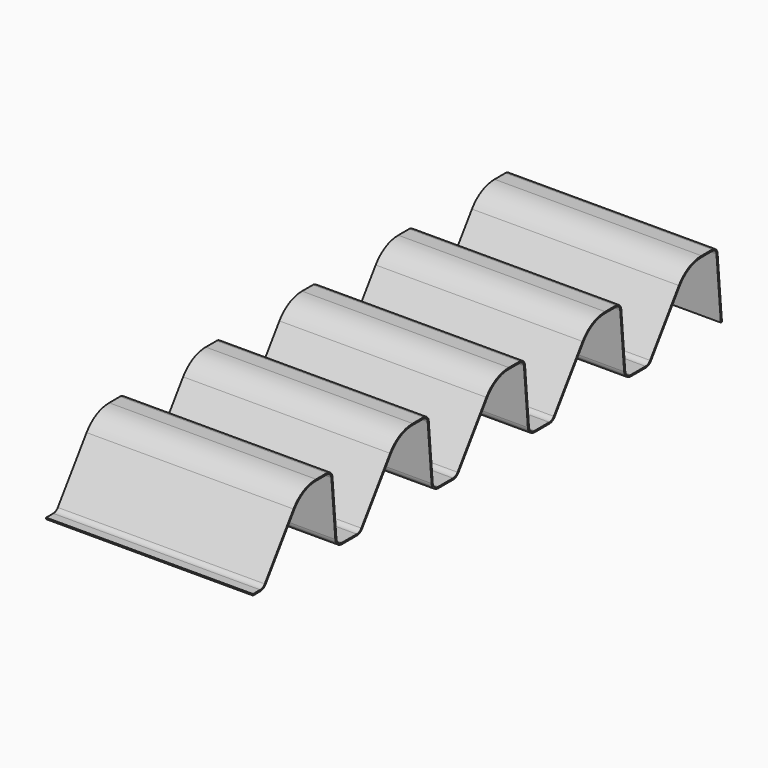
from build123d import *

# Parameters (mm, degrees)
F1_DEPTH      = 300
F1_DEPTH_BACK = 300


with BuildPart() as f1:
    # F0 (on Right) → F1 (new body, two sides)
    with BuildSketch(Plane.YZ) as f1_sk:
        with BuildLine():
            Line((110.183008, 157.357644), (5.9717, 8.528471))
            ThreePointArc((5.9717, 8.528471), (-1.176369, 2.259783), (-10.411341, 0))
            Line((-10.411341, 0), (-36.606026, 0))
            Line((-36.606026, 0), (-36.590081, -4))
            Line((-36.590081, -4), (-10.411341, -4))
            ThreePointArc((-10.411341, -4), (0.670626, -1.28826), (9.248308, 6.234166))
            Line((9.248308, 6.234166), (113.459616, 155.063338))
            ThreePointArc((113.459616, 155.063338), (147.770346, 185.15304), (192.098213, 196))
            Line((192.098213, 196), (231.673377, 196))
            ThreePointArc((231.673377, 196), (242.48282, 191.796437), (247.612492, 181.394492))
            Line((247.612492, 181.394492), (261.915687, 17.908216))
            ThreePointArc((261.915687, 17.908216), (269.610202, 2.305292), (285.824377, -4.000046))
            Line((285.824377, -4.000046), (339.588671, -4.000007))
            ThreePointArc((339.588671, -4.000007), (350.670628, -1.288263), (359.248303, 6.234158))
            Line((359.248303, 6.234158), (463.459616, 155.063338))
            ThreePointArc((463.459616, 155.063338), (497.770346, 185.15304), (542.098213, 196))
            Line((542.098213, 196), (581.673377, 196))
            ThreePointArc((581.673377, 196), (591.80723, 192.05916), (596.616297, 182.307336))
            Line((596.616297, 182.307336), (610.919489, 18.821106))
            ThreePointArc((610.919489, 18.821106), (618.613997, 3.218188), (634.828161, -3.087156))
            Line((634.828161, -3.087156), (688.592464, -3.087156))
            ThreePointArc((688.592464, -3.087156), (699.674431, -0.375416), (708.252113, 7.14701))
            Line((708.252113, 7.14701), (812.463422, 155.976182))
            ThreePointArc((812.463422, 155.976182), (846.774151, 186.065884), (891.102018, 196.912844))
            Line((891.102018, 196.912844), (930.677182, 196.912844))
            ThreePointArc((930.677182, 196.912844), (940.811035, 192.972004), (945.620102, 183.22018))
            Line((945.620102, 183.22018), (959.923294, 19.733951))
            ThreePointArc((959.923294, 19.733951), (967.617802, 4.131032), (983.831967, -2.174311))
            Line((983.831967, -2.174311), (1037.59627, -2.174311))
            ThreePointArc((1037.59627, -2.174311), (1048.678236, 0.537429), (1057.255919, 8.059854))
            Line((1057.255919, 8.059854), (1161.467227, 156.889026))
            ThreePointArc((1161.467227, 156.889026), (1195.777956, 186.978728), (1240.105823, 197.825689))
            Line((1240.105823, 197.825689), (1279.680987, 197.825689))
            ThreePointArc((1279.680987, 197.825689), (1289.81484, 193.884849), (1294.623908, 184.133025))
            Line((1294.623908, 184.133025), (1308.927099, 20.646795))
            ThreePointArc((1308.927099, 20.646795), (1316.621607, 5.043877), (1332.835772, -1.261467))
            Line((1332.835772, -1.261467), (1386.600075, -1.261467))
            ThreePointArc((1386.600075, -1.261467), (1397.682042, 1.450273), (1406.259724, 8.972698))
            Line((1406.259724, 8.972698), (1510.471032, 157.801871))
            ThreePointArc((1510.471032, 157.801871), (1544.781762, 187.891573), (1589.109629, 198.738533))
            Line((1589.109629, 198.738533), (1628.684792, 198.738533))
            ThreePointArc((1628.684792, 198.738533), (1638.818646, 194.797693), (1643.627713, 185.045869))
            Line((1643.627713, 185.045869), (1659.528175, 3.302754))
            Line((1659.528175, 3.302754), (1663.393974, 3.302754))
            Line((1663.393974, 3.302754), (1663.393974, 5.01132))
            Line((1663.393974, 5.01132), (1647.612492, 185.394492))
            ThreePointArc((1647.612492, 185.394492), (1641.521006, 197.746802), (1628.684792, 202.738533))
            Line((1628.684792, 202.738533), (1589.109629, 202.738533))
            ThreePointArc((1589.109629, 202.738533), (1542.934767, 191.439616), (1507.194424, 160.096176))
            Line((1507.194424, 160.096176), (1402.983116, 11.267004))
            ThreePointArc((1402.983116, 11.267004), (1395.835047, 4.998316), (1386.600075, 2.738533))
            Line((1386.600075, 2.738533), (1332.835772, 2.738533))
            ThreePointArc((1332.835772, 2.738533), (1319.323968, 7.992986), (1312.911878, 20.995418))
            Line((1312.911878, 20.995418), (1298.608686, 184.481648))
            ThreePointArc((1298.608686, 184.481648), (1292.517201, 196.833958), (1279.680987, 201.825689))
            Line((1279.680987, 201.825689), (1240.105823, 201.825689))
            ThreePointArc((1240.105823, 201.825689), (1193.930962, 190.526772), (1158.190619, 159.183332))
            Line((1158.190619, 159.183332), (1053.97931, 10.35416))
            ThreePointArc((1053.97931, 10.35416), (1046.831242, 4.085472), (1037.59627, 1.825689))
            Line((1037.59627, 1.825689), (983.831967, 1.825689))
            ThreePointArc((983.831967, 1.825689), (970.320163, 7.080142), (963.908073, 20.082574))
            Line((963.908073, 20.082574), (949.604881, 183.568803))
            ThreePointArc((949.604881, 183.568803), (943.513396, 195.921114), (930.677182, 200.912844))
            Line((930.677182, 200.912844), (891.102018, 200.912844))
            ThreePointArc((891.102018, 200.912844), (844.927157, 189.613928), (809.186814, 158.270488))
            Line((809.186814, 158.270488), (704.975505, 9.441316))
            ThreePointArc((704.975505, 9.441316), (697.827437, 3.172628), (688.592464, 0.912844))
            Line((688.592464, 0.912844), (634.828161, 0.912844))
            ThreePointArc((634.828161, 0.912844), (621.316357, 6.167298), (614.904268, 19.169729))
            Line((614.904268, 19.169729), (600.601076, 182.655959))
            ThreePointArc((600.601076, 182.655959), (594.50959, 195.008269), (581.673377, 200))
            Line((581.673377, 200), (542.098213, 200))
            ThreePointArc((542.098213, 200), (495.923351, 188.701083), (460.183008, 157.357644))
            Line((460.183008, 157.357644), (355.971695, 8.528464))
            ThreePointArc((355.971695, 8.528464), (348.823632, 2.259779), (339.588668, -7e-06))
            Line((339.588668, -7e-06), (285.824374, -4.6e-05))
            ThreePointArc((285.824374, -4.6e-05), (272.312561, 5.254403), (265.900466, 18.256839))
            Line((265.900466, 18.256839), (251.59727, 181.743115))
            ThreePointArc((251.59727, 181.743115), (245.185181, 194.745547), (231.673377, 200))
            Line((231.673377, 200), (192.098213, 200))
            ThreePointArc((192.098213, 200), (145.923351, 188.701083), (110.183008, 157.357644))
        make_face()
    extrude(amount=F1_DEPTH)
    extrude(f1_sk.sketch, amount=-F1_DEPTH_BACK)


solid = f1.part
